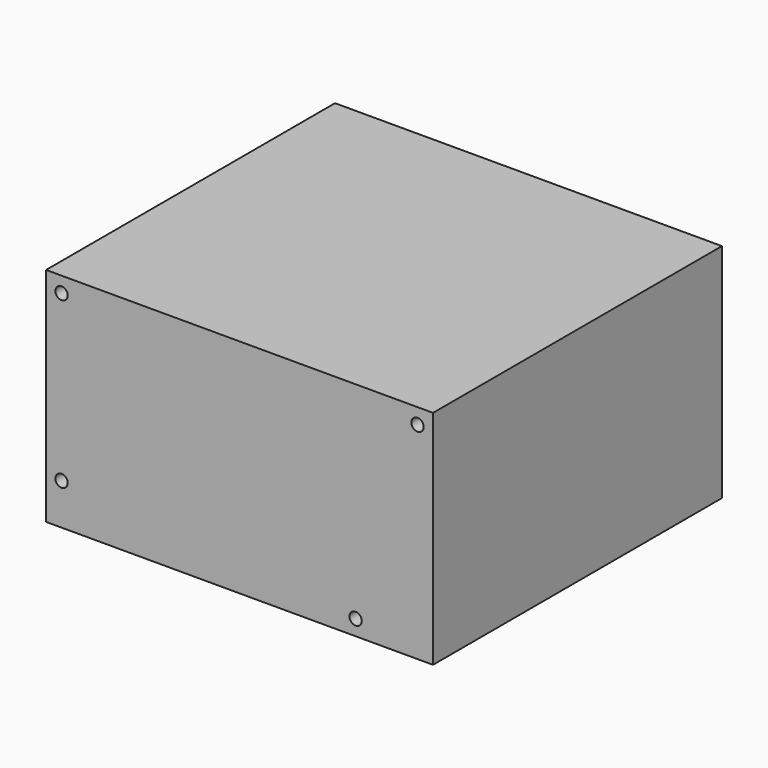
from build123d import *

# Parameters (mm, degrees)
F0_W     = 150
F0_H     = 140
F1_DEPTH = 86
F2_R     = 2.38125
F3_DEPTH = 10


with BuildPart() as f1:
    # F0 (on Top) → F1 (new body)
    with BuildSketch(Plane.XY):
        Rectangle(F0_W, F0_H)
    extrude(amount=F1_DEPTH)

    # F2 (on face) → F3 (cut)
    with BuildSketch(Plane.XZ.offset(70)):
        with Locations((-69, 80)):
            Circle(F2_R)
        with Locations((-69, 16)):
            Circle(F2_R)
        with Locations((69, 80)):
            Circle(F2_R)
        with Locations((45, 6)):
            Circle(F2_R)
    extrude(amount=-F3_DEPTH, mode=Mode.SUBTRACT)


solid = f1.part
